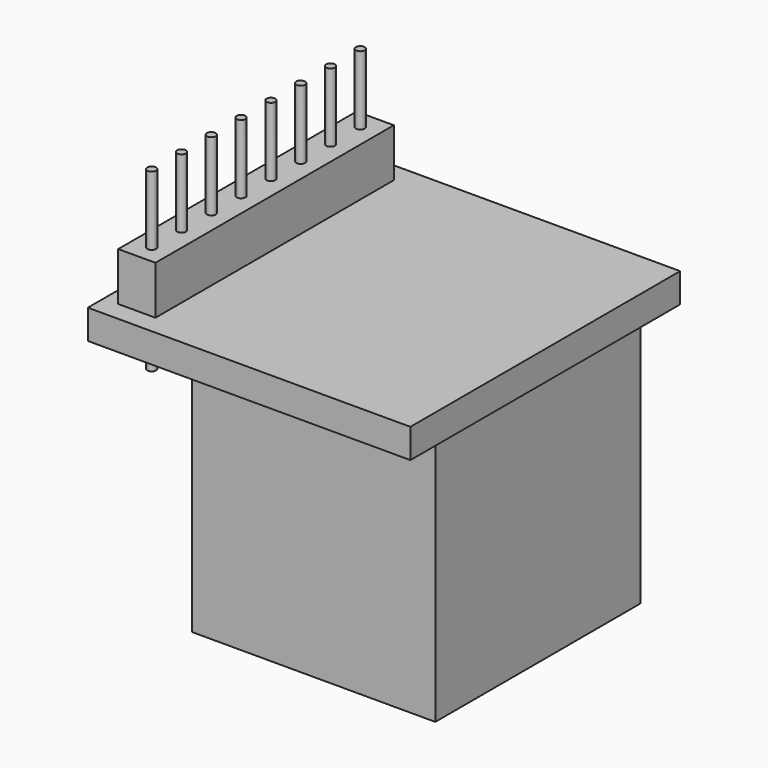
from build123d import *

# Parameters (mm, degrees)
F0_W          = 16.6
F0_H          = 17.5
F1_DEPTH      = 17
F3_DEPTH      = 6
F4_W          = 22
F4_H          = 23
F4_W_2        = 16.6
F4_H_2        = 17.5
F5_DEPTH      = 2
F6_W          = 2.54
F6_H          = 2.54
F6_R          = 0.3
F7_DEPTH      = 3.3
F8_DEPTH      = 8
F8_DEPTH_BACK = 4


with BuildPart() as f1:
    # F0 (on Top) → F1 (new body)
    with BuildSketch(Plane.XY):
        Rectangle(F0_W, F0_H)
    extrude(amount=F1_DEPTH)

    # F2 (on face) → F3 (cut)
    with BuildSketch(Plane(origin=(0, 0, 0), x_dir=(1, 0, 0), z_dir=(0, 0, -1))):
        Polygon((7.8, -2), (7.8, 0), (7.8, 2), (4.7, 2), (4.7, 6), (-2.3, 6), (-2.3, 0), (-2.3, -6), (4.7, -6), (4.7, -2), align=None)
    extrude(amount=-F3_DEPTH, mode=Mode.SUBTRACT)

    # F4 (on face) → F5 (join)
    with BuildSketch(Plane.XY.offset(17)):
        with Locations((-2.2, 0)):
            Rectangle(F4_W, F4_H)
        Rectangle(F4_W_2, F4_H_2, mode=Mode.SUBTRACT)
        Rectangle(F4_W_2, F4_H_2)
    extrude(amount=F5_DEPTH)

    # F6 (on face) → F7 (join)
    with BuildSketch(Plane.XY.offset(19)):
        with Locations((-10.93, -8.89)):
            Rectangle(F6_W, F6_H)
        with Locations((-10.93, -8.89)):
            Circle(F6_R, mode=Mode.SUBTRACT)
        with Locations((-10.93, -6.35)):
            Rectangle(F6_W, F6_H)
        with Locations((-10.93, -6.35)):
            Circle(F6_R, mode=Mode.SUBTRACT)
        with Locations((-10.93, -3.81)):
            Rectangle(F6_W, F6_H)
        with Locations((-10.93, -3.81)):
            Circle(F6_R, mode=Mode.SUBTRACT)
        with Locations((-10.93, -1.27)):
            Rectangle(F6_W, F6_H)
        with Locations((-10.93, -1.27)):
            Circle(F6_R, mode=Mode.SUBTRACT)
        with Locations((-10.93, 1.27)):
            Rectangle(F6_W, F6_H)
        with Locations((-10.93, 1.27)):
            Circle(F6_R, mode=Mode.SUBTRACT)
        with Locations((-10.93, 8.89)):
            Rectangle(F6_W, F6_H)
        with Locations((-10.93, 8.89)):
            Circle(F6_R, mode=Mode.SUBTRACT)
        with Locations((-10.93, 3.81)):
            Rectangle(F6_W, F6_H)
        with Locations((-10.93, 3.81)):
            Circle(F6_R, mode=Mode.SUBTRACT)
        with Locations((-10.93, 6.35)):
            Rectangle(F6_W, F6_H)
        with Locations((-10.93, 6.35)):
            Circle(F6_R, mode=Mode.SUBTRACT)
    extrude(amount=F7_DEPTH)

    # F6 (on face) → F8 (join, two sides)
    with BuildSketch(Plane.XY.offset(19)) as f8_sk:
        with Locations((-10.93, -8.89)):
            Circle(F6_R)
        with Locations((-10.93, -6.35)):
            Circle(F6_R)
        with Locations((-10.93, -3.81)):
            Circle(F6_R)
        with Locations((-10.93, -1.27)):
            Circle(F6_R)
        with Locations((-10.93, 1.27)):
            Circle(F6_R)
        with Locations((-10.93, 3.81)):
            Circle(F6_R)
        with Locations((-10.93, 6.35)):
            Circle(F6_R)
        with Locations((-10.93, 8.89)):
            Circle(F6_R)
    extrude(amount=F8_DEPTH)
    extrude(f8_sk.sketch, amount=-F8_DEPTH_BACK)


solid = f1.part
